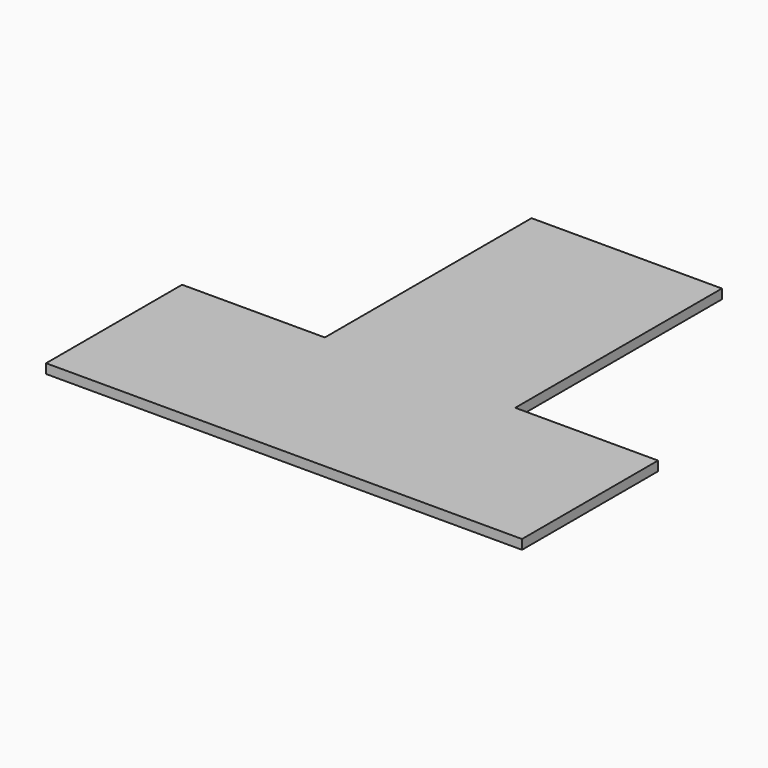
from build123d import *

# Parameters (mm, degrees)
F0_W     = 40
F0_H     = 54.282492
F0_W_2   = 30
F0_H_2   = 35.717508
F1_DEPTH = 2


with BuildPart() as f1:
    # F0 (on Top) → F1 (new body)
    with BuildSketch(Plane.XY):
        with Locations((0, 42.858754)):
            Rectangle(F0_W, F0_H)
        with Locations((-35, -2.141246)):
            Rectangle(F0_W_2, F0_H_2)
        with Locations((0, -2.141246)):
            Rectangle(F0_W, F0_H_2)
        with Locations((35, -2.141246)):
            Rectangle(F0_W_2, F0_H_2)
    extrude(amount=F1_DEPTH)


solid = f1.part
